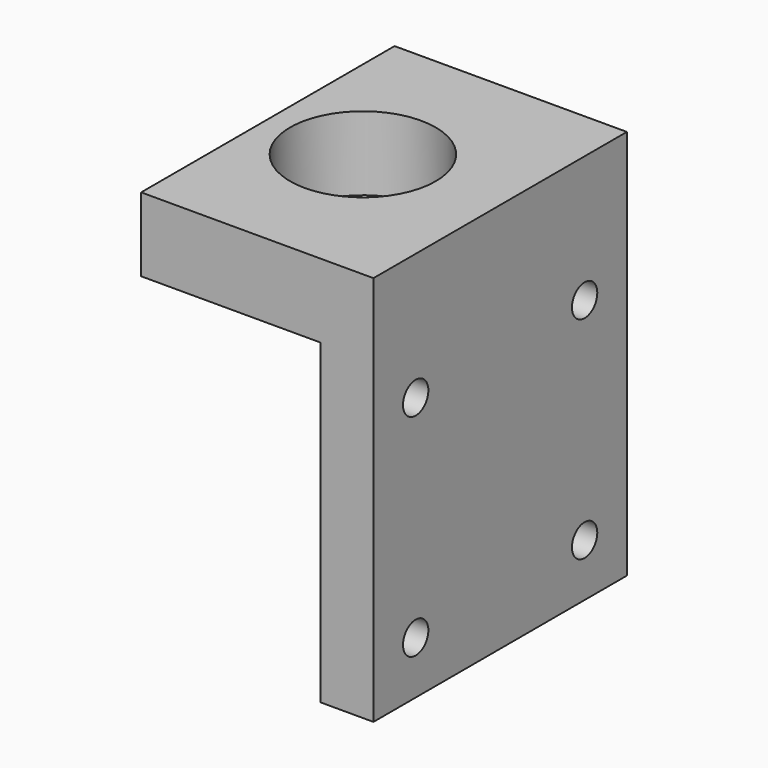
from build123d import *

# Parameters (mm, degrees)
F0_W     = 22
F0_H     = 30
F1_DEPTH = 7
F2_R     = 6.9
F3_DEPTH = 25
F4_W     = 5
F4_H     = 30
F5_DEPTH = 30
F6_R     = 1.5
F7_DEPTH = 25
F8_R     = 3.25
F9_DEPTH = 2


with BuildPart() as f1:
    # F0 (on Top) → F1 (new body)
    with BuildSketch(Plane.XY):
        with Locations((11, 15)):
            Rectangle(F0_W, F0_H)
    extrude(amount=F1_DEPTH)

    # F2 (on face) → F3 (cut)
    with BuildSketch(Plane.XY.offset(7)):
        with Locations((9, 15)):
            Circle(F2_R)
    extrude(amount=-F3_DEPTH, mode=Mode.SUBTRACT)

    # F4 (on face) → F5 (join)
    with BuildSketch(Plane(origin=(0, 0, 0), x_dir=(1, 0, 0), z_dir=(0, 0, -1))):
        with Locations((19.5, -15)):
            Rectangle(F4_W, F4_H)
    extrude(amount=F5_DEPTH)

    # F6 (on face) → F7 (cut)
    with BuildSketch(Plane.YZ.offset(22)):
        with Locations((5, -25)):
            Circle(F6_R)
        with Locations((25, -25)):
            Circle(F6_R)
        with Locations((25, -5)):
            Circle(F6_R)
        with Locations((5, -5)):
            Circle(F6_R)
    extrude(amount=-F7_DEPTH, mode=Mode.SUBTRACT)

    # F8 (on face) → F9 (cut)
    with BuildSketch(Plane(origin=(17, 0, 0), x_dir=(0, -1, 0), z_dir=(-1, 0, 0))):
        with Locations((-25, -5)):
            Circle(F8_R)
        with Locations((-5, -5)):
            Circle(F8_R)
        with Locations((-5, -25)):
            Circle(F8_R)
        with Locations((-25, -25)):
            Circle(F8_R)
    extrude(amount=-F9_DEPTH, mode=Mode.SUBTRACT)


solid = f1.part
